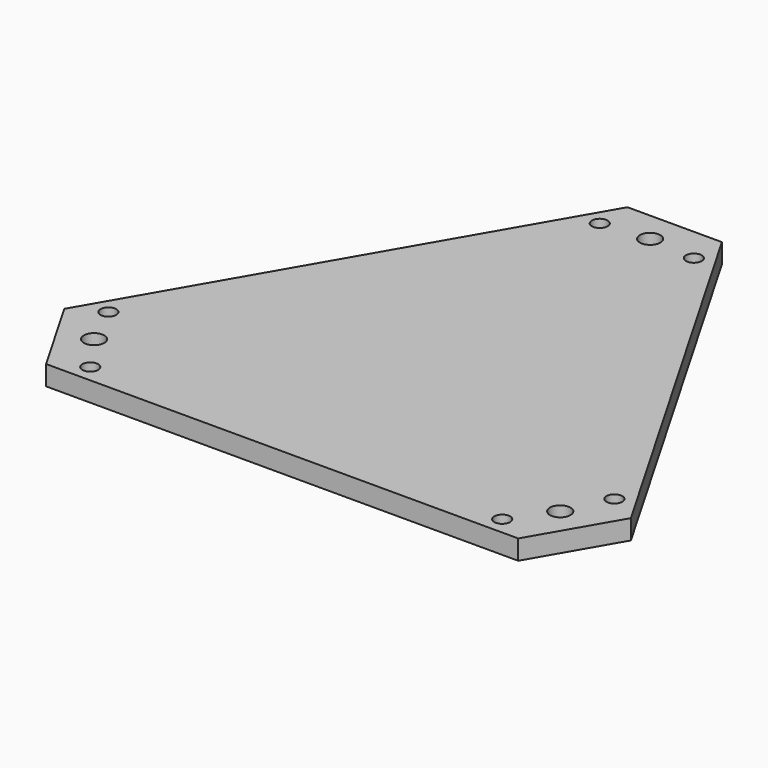
from build123d import *

# Parameters (mm, degrees)
F0_R     = 6.5
F0_R_2   = 5
F1_DEPTH = 12.5


with BuildPart() as f1:
    # F0 (on Top) → F1 (new body)
    with BuildSketch(Plane.XY):
        Polygon((-30, 190.525589), (-180, -69.282032), (-150, -121.243557), (150, -121.243557), (180, -69.282032), (30, 190.525589), align=None)
        with Locations((-148.090344, -85.5)):
            Circle(F0_R, mode=Mode.SUBTRACT)
        with Locations((-130.869151, -110.064823)):
            Circle(F0_R_2, mode=Mode.SUBTRACT)
        with Locations((-160.753508, -58.303598)):
            Circle(F0_R_2, mode=Mode.SUBTRACT)
        with Locations((130.869151, -110.064823)):
            Circle(F0_R_2, mode=Mode.SUBTRACT)
        with Locations((148.090344, -85.5)):
            Circle(F0_R, mode=Mode.SUBTRACT)
        with Locations((160.753508, -58.303598)):
            Circle(F0_R_2, mode=Mode.SUBTRACT)
        with Locations((-29.884357, 168.368421)):
            Circle(F0_R_2, mode=Mode.SUBTRACT)
        with Locations((0, 171)):
            Circle(F0_R, mode=Mode.SUBTRACT)
        with Locations((29.884357, 168.368421)):
            Circle(F0_R_2, mode=Mode.SUBTRACT)
    extrude(amount=F1_DEPTH)


solid = f1.part
